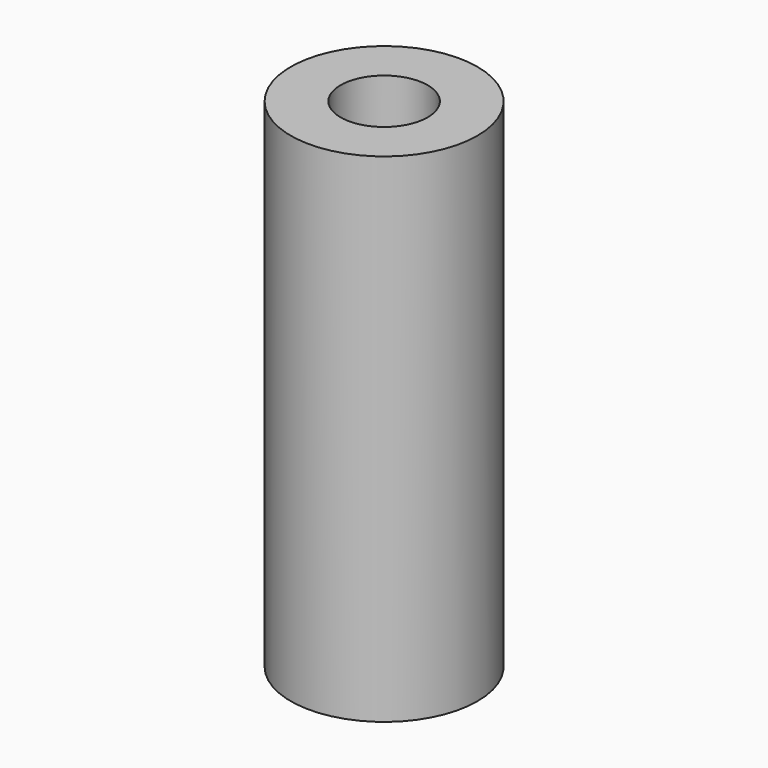
from build123d import *

# Parameters (mm, degrees)
SKETCH_R   = 7.5
SKETCH_R_2 = 3.5
PAD_DEPTH  = 40


with BuildPart() as part:
    # Sketch → Pad (new body)
    with BuildSketch(Plane.XY):
        Circle(SKETCH_R)
        Circle(SKETCH_R_2, mode=Mode.SUBTRACT)
    extrude(amount=PAD_DEPTH)


solid = part.part
